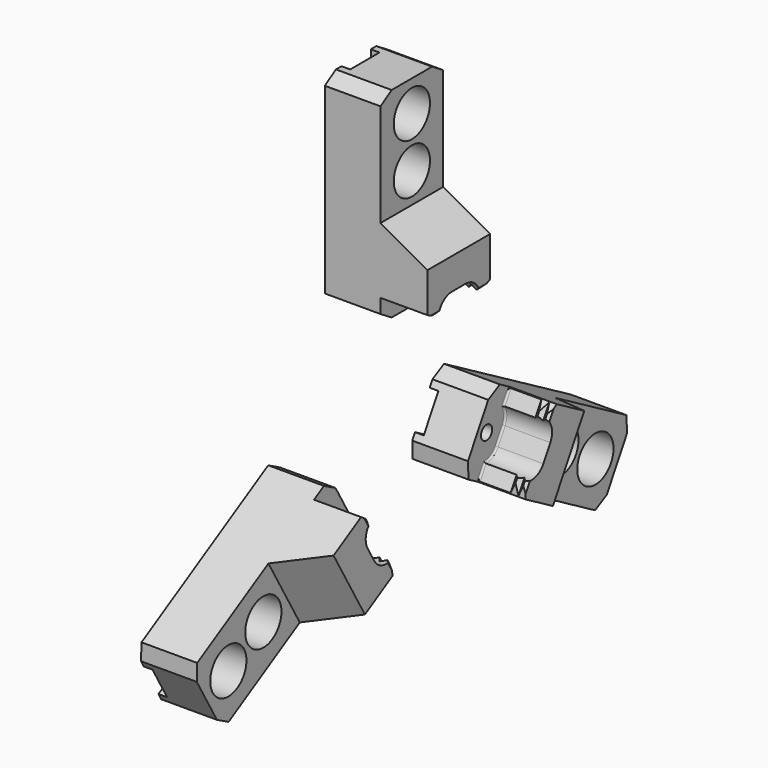
from build123d import *

# Parameters (mm, degrees)
F1_START  = 3
F1_DEPTH  = 59
F2_W      = 27
F2_H      = 5
F3_DEPTH  = 45
F5_DEPTH  = 27
F6_R      = 4
F7_DEPTH  = 17
F8_R      = 1
F9_R      = 9
F10_DEPTH = 32
F9_R_2    = 13
F11_DEPTH = 17.5
F13_DEPTH = 115
F15_COUNT = 3


with BuildPart() as f1:
    # F0 (on Right) → F1 (new body)
    with BuildSketch(Plane.YZ.offset(F1_START)):
        Polygon((-14.5, 54.885), (0, 54.885), (14.5, 54.885), (22.5, 59.885), (22.5, 164.885), (14.5, 169.885), (0, 169.885), (-14.5, 169.885), (-22.5, 164.885), (-22.5, 59.885), align=None)
        Polygon((-14.5, 54.885), (0, 54.885), (14.5, 54.885), (22.5, 59.885), (22.5, 164.885), (14.5, 169.885), (0, 169.885), (-14.5, 169.885), (-22.5, 164.885), (-22.5, 59.885), align=None)
    extrude(amount=F1_DEPTH)

    # F2 (on face) → F3 (cut, through all)
    with BuildSketch(Plane.XZ.offset(22.5)):
        with Locations((48.5, 167.385)):
            Rectangle(F2_W, F2_H)
        with Locations((48.5, 57.385)):
            Rectangle(F2_W, F2_H)
        Polygon((62, 164.885), (35, 164.885), (35, 105.885), (62, 90.885), align=None)
        Polygon((35, 67.885), (35, 59.885), (62, 59.885), (62, 66.885), (60.5, 65.385), (58, 67.885), (56, 65.385), (53.5, 67.885), align=None)
    extrude(amount=-F3_DEPTH, mode=Mode.SUBTRACT)

    # F4 (on face) → F5 (cut, through all)
    with BuildSketch(Plane.YZ.offset(62)):
        Polygon((22.5, 68.085), (17, 65.385), (22.5, 65.385), align=None)
        with BuildLine():
            Line((0, 65.385), (14.5, 65.385))
            ThreePointArc((14.5, 65.385), (11.0135528164, 70.7355002341), (5, 72.885))
            Line((5, 72.885), (0, 72.885))
            Line((0, 72.885), (0, 65.385))
        make_face()
        Polygon((-22.5, 65.385), (-17, 65.385), (-22.5, 68.085), align=None)
        with BuildLine():
            Line((-14.5, 65.385), (0, 65.385))
            Line((0, 65.385), (0, 72.885))
            Line((0, 72.885), (-5, 72.885))
            ThreePointArc((-5, 72.885), (-11.0135528164, 70.7355002341), (-14.5, 65.385))
        make_face()
    extrude(amount=-F5_DEPTH, mode=Mode.SUBTRACT)

    # F6 (on face) → F7 (cut)
    with BuildSketch(Plane.YZ.offset(35)):
        with Locations((0, 61.885)):
            Circle(F6_R)
    extrude(amount=-F7_DEPTH, mode=Mode.SUBTRACT)

    # F8
    f8_edges = [f1.edges().sort_by_distance(p)[0] for p in [
        (35, 17.785461, 67.885),
        (35, 9.89693, 71.50035),
        (35, 0, 72.885),
        (35, -9.89693, 71.50035),
        (35, -17.785461, 67.885),
    ]]
    fillet(f8_edges, radius=F8_R)

    # F9 (on face) → F10 (cut, through all)
    with BuildSketch(Plane.YZ.offset(35)):
        with Locations((0, 152.085)):
            Circle(F9_R)
        with Locations((0, 123.085)):
            Circle(F9_R)
    extrude(amount=-F10_DEPTH, mode=Mode.SUBTRACT)

    # F9 (on face) → F11 (cut)
    with BuildSketch(Plane.YZ.offset(35)):
        with Locations((0, 152.085)):
            Circle(F9_R_2)
        with Locations((0, 152.085)):
            Circle(F9_R, mode=Mode.SUBTRACT)
        with Locations((0, 123.085)):
            Circle(F9_R_2)
        with Locations((0, 123.085)):
            Circle(F9_R, mode=Mode.SUBTRACT)
    extrude(amount=-F11_DEPTH, mode=Mode.SUBTRACT)

    # F12 (on face) → F13 (cut, through all)
    with BuildSketch(Plane.XY.offset(169.885)):
        Polygon((3, 10.5), (3, 0), (3, -10.5), (8, -10.5), (8, 0), (8, 10.5), align=None)
    extrude(amount=-F13_DEPTH, mode=Mode.SUBTRACT)


with BuildPart() as f15_1:
    # F15: instance of F1
    add(f1.part.rotate(Axis((35.3717803955, 0, 0), (1, 0, 0)), 1 * 360 / F15_COUNT))


with BuildPart() as f15_2:
    # F15: instance of F1
    add(f1.part.rotate(Axis((35.3717803955, 0, 0), (1, 0, 0)), 2 * 360 / F15_COUNT))


solid = Compound([f1.part, f15_1.part, f15_2.part])
